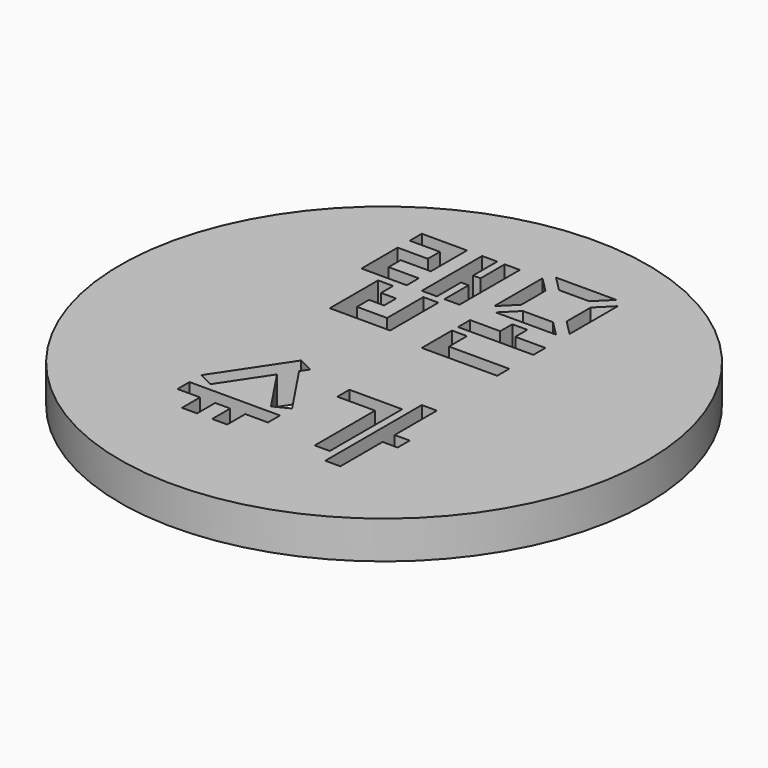
from build123d import *

# Parameters (mm, degrees)
F0_R     = 35
F1_DEPTH = 5


with BuildPart() as f1:
    # F0 (on Top) → F1 (new body)
    with BuildSketch(Plane.XY):
        with Locations((-51.047989, -3.453226)):
            Circle(F0_R)
        Polygon((-59.047989, -24.453226), (-61.047989, -24.453226), (-61.047989, -21.453226), (-64.047989, -21.453226), (-64.047989, -19.453226), (-52.047989, -19.453226), (-52.047989, -21.453226), (-55.047989, -21.453226), (-55.047989, -24.453226), (-57.047989, -24.453226), (-57.047989, -21.453226), (-59.047989, -21.453226), align=None, mode=Mode.SUBTRACT)
        Polygon((-64.047989, -17.453226), (-58.047989, -8.45281), (-56.047989, -9.452658), (-56.714722, -10.452803), (-52.047989, -17.453226), (-54.047989, -18.453125), (-58.047951, -12.45274), (-62.047989, -18.453074), align=None, mode=Mode.SUBTRACT)
        Polygon((-43.047989, -10.453226), (-43.047989, -22.453226), (-45.047989, -22.453226), (-45.047989, -12.453226), (-50.047989, -12.453226), (-50.047989, -10.453226), align=None, mode=Mode.SUBTRACT)
        Polygon((-42.047989, -8.453226), (-40.047989, -8.453226), (-40.047989, -15.453226), (-38.047989, -15.453226), (-38.047989, -17.453226), (-40.047989, -17.453226), (-40.047989, -24.453226), (-42.047989, -24.453226), (-42.047989, -22.453226), align=None, mode=Mode.SUBTRACT)
        Polygon((-57.047989, 10.546774), (-55.047989, 10.546774), (-55.047989, 2.546774), (-63.047989, 2.546774), (-63.047989, 10.546774), (-61.047989, 10.546774), (-61.047989, 8.546774), (-59.047989, 8.546774), (-59.047989, 6.546774), (-61.047989, 6.546774), (-61.047989, 4.546774), (-57.047989, 4.546774), align=None, mode=Mode.SUBTRACT)
        Polygon((-66.047989, 19.546774), (-66.047989, 21.546774), (-60.047989, 21.546774), (-60.047989, 15.546774), (-64.047989, 15.546774), (-64.047989, 13.546774), (-60.047989, 13.546774), (-60.047989, 11.546774), (-66.047989, 11.546774), (-66.047989, 17.546774), (-62.047989, 17.546774), (-62.047989, 19.546774), align=None, mode=Mode.SUBTRACT)
        Polygon((-58.047989, 11.546774), (-58.047989, 21.546774), (-56.047989, 21.546774), (-56.047989, 17.546774), (-55.047989, 17.546774), (-55.047989, 21.546774), (-53.047989, 21.546774), (-53.047989, 11.546774), (-55.047989, 11.546774), (-55.047989, 15.546774), (-56.047989, 15.546774), (-56.047989, 11.546774), align=None, mode=Mode.SUBTRACT)
        Polygon((-50.047989, 1.546774), (-50.047989, 6.546774), (-48.047989, 6.546774), (-48.047989, 3.546774), (-40.047989, 3.546774), (-40.047989, 1.546774), align=None, mode=Mode.SUBTRACT)
        Polygon((-44.047989, 9.547076), (-40.047989, 9.547076), (-40.047989, 7.547076), (-50.047989, 7.547076), (-50.047989, 9.547076), (-46.047989, 9.547076), (-46.047989, 11.547076), (-44.047989, 11.547076), align=None, mode=Mode.SUBTRACT)
        Polygon((-43.048291, 14.546774), (-41.047536, 12.548133), (-49.04814, 12.546925), (-47.048593, 14.546774), align=None, mode=Mode.SUBTRACT)
        Polygon((-48.048291, 19.547076), (-48.048291, 15.546472), (-50.047989, 13.546774), (-50.047989, 21.546774), align=None, mode=Mode.SUBTRACT)
        Polygon((-47.047989, 20.546774), (-49.048593, 22.546774), (-41.047989, 22.546774), (-43.047385, 20.546774), align=None, mode=Mode.SUBTRACT)
        Polygon((-40.048593, 13.546774), (-42.048291, 15.546472), (-42.048291, 19.547076), (-40.048593, 21.546774), align=None, mode=Mode.SUBTRACT)
    extrude(amount=F1_DEPTH)


solid = f1.part
